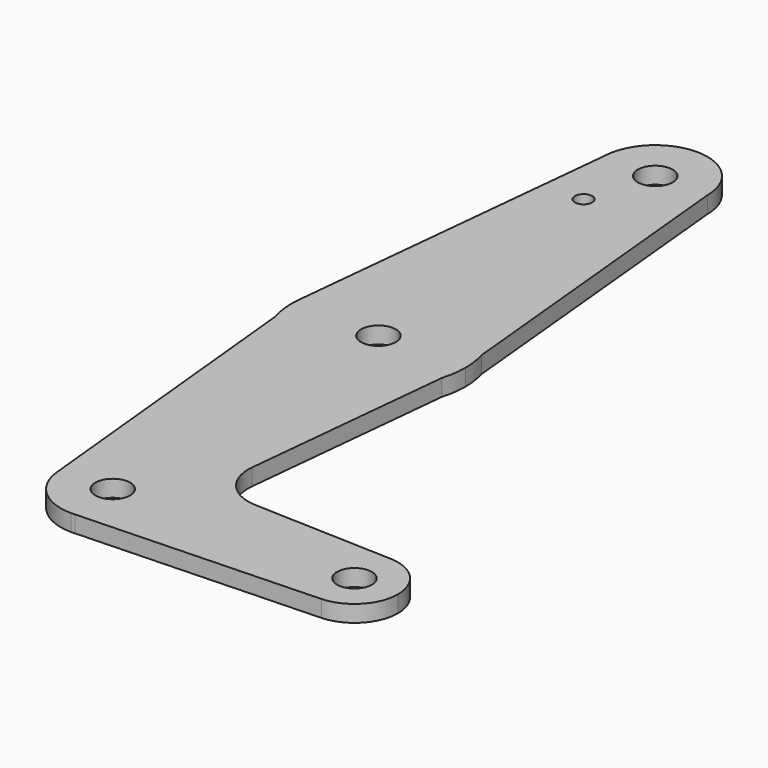
from build123d import *

# Parameters (mm, degrees)
F0_R     = 3.175
F0_R_2   = 1.5875
F1_DEPTH = 3.048


with BuildPart() as f1:
    # F0 (on Top) → F1 (new body)
    with BuildSketch(Plane.XY):
        with BuildLine():
            ThreePointArc((15.2175583636, -4.5212324038), (15.7097798206, -2.2843911636), (15.875, 0))
            ThreePointArc((15.875, 0), (15.7154427804, 2.2451020501), (15.2399784925, 4.4450737392))
            Line((15.2399784925, 4.4450737392), (15.6723294249, 0))
            Line((15.6723294249, 0), (15.2175583636, -4.5212324038))
        make_face()
        with BuildLine():
            Line((15.6723294249, 0), (15.2399784925, 4.4450737392))
            ThreePointArc((15.2399784925, 4.4450737392), (-1.4492391645, 15.8087106003), (-15.7941574641, 1.6000671854))
            Line((-15.7941574641, 1.6000671854), (-15.1648674008, -4.6949357522))
            ThreePointArc((-15.1648674008, -4.6949357522), (0.0907595599, -15.8747405554), (15.2175583636, -4.5212324038))
            Line((15.2175583636, -4.5212324038), (15.6723294249, 0))
        make_face()
        Circle(F0_R, mode=Mode.SUBTRACT)
        with BuildLine():
            ThreePointArc((-15.7941574641, 1.6000671854), (-1.4492391645, 15.8087106003), (15.2399784925, 4.4450737392))
            Line((15.2399784925, 4.4450737392), (9.525, 63.2017431796))
            ThreePointArc((9.525, 63.2017431796), (-0.1705540325, 53.6782702667), (-9.5188921411, 63.5427965568))
            Line((-9.5188921411, 63.5427965568), (-15.7941574641, 1.6000671854))
        make_face()
        with Locations((-3.4865089692, 51.1964038014)):
            Circle(F0_R_2, mode=Mode.SUBTRACT)
        with BuildLine():
            Line((11.3419360339, -43.0518047142), (15.2175583636, -4.5212324038))
            ThreePointArc((15.2175583636, -4.5212324038), (0.0907595599, -15.8747405554), (-15.1648674008, -4.6949357522))
            Line((-15.1648674008, -4.6949357522), (-9.4777605705, -61.5850032845))
            ThreePointArc((-9.4777605705, -61.5850032845), (-0.4743182298, -51.1243609383), (9.525, -60.6375437504))
            ThreePointArc((9.525, -60.6375437504), (6.9721824676, -67.1270966348), (0.682103068, -70.1380890192))
            Line((0.682103068, -70.1380890192), (44.4214603181, -68.5699473787))
            ThreePointArc((44.4214603181, -68.5699473787), (36.1995681089, -60.6375437504), (44.4214603181, -52.7051401222))
            Line((44.4214603181, -52.7051401222), (18.9673734648, -51.7925612452))
            ThreePointArc((18.9673734648, -51.7925612452), (13.2613732726, -49.0738820504), (11.3419360339, -43.0518047142))
        make_face()
        with BuildLine():
            Line((-15.1648674008, -4.6949357522), (-15.7941574641, 1.6000671854))
            ThreePointArc((-15.7941574641, 1.6000671854), (-15.7962676175, -1.5790992234), (-15.1648674008, -4.6949357522))
        make_face()
        with BuildLine():
            ThreePointArc((-9.5188921411, 63.5427965568), (-0.1705540325, 53.6782702667), (9.525, 63.2017431796))
            ThreePointArc((9.525, 63.2017431796), (0.7902008978, 72.6939087671), (-9.3938887225, 64.776697042))
            Line((-9.3938887225, 64.776697042), (-9.5188921411, 63.5427965568))
        make_face()
        with Locations((0, 63.2017431796)):
            Circle(F0_R, mode=Mode.SUBTRACT)
        with BuildLine():
            ThreePointArc((-9.3938887225, 64.776697042), (-9.4764944785, 64.1617834908), (-9.5188921411, 63.5427965568))
            Line((-9.5188921411, 63.5427965568), (-9.3938887225, 64.776697042))
        make_face()
        with BuildLine():
            ThreePointArc((9.525, -60.6375437504), (-0.4743182298, -51.1243609383), (-9.4777605705, -61.5850032845))
            ThreePointArc((-9.4777605705, -61.5850032845), (-6.3914424404, -67.6997734642), (0, -70.1625437504))
            Line((0, -70.1625437504), (0.682103068, -70.1380890192))
            ThreePointArc((0.682103068, -70.1380890192), (6.9721824676, -67.1270966348), (9.525, -60.6375437504))
        make_face()
        with Locations((0, -60.6375437504)):
            Circle(F0_R, mode=Mode.SUBTRACT)
        with BuildLine():
            Line((0.682103068, -70.1380890192), (0, -70.1625437504))
            ThreePointArc((0, -70.1625437504), (0.3412706511, -70.1564281043), (0.682103068, -70.1380890192))
        make_face()
        with BuildLine():
            ThreePointArc((52.0745681089, -60.6375437504), (49.8493911657, -55.12634864), (44.4214603181, -52.7051401222))
            ThreePointArc((44.4214603181, -52.7051401222), (36.1995681089, -60.6375437504), (44.4214603181, -68.5699473787))
            ThreePointArc((44.4214603181, -68.5699473787), (49.8493911657, -66.1487388608), (52.0745681089, -60.6375437504))
        make_face()
        with Locations((44.1370681089, -60.6375437504)):
            Circle(F0_R, mode=Mode.SUBTRACT)
    extrude(amount=F1_DEPTH)


solid = f1.part
